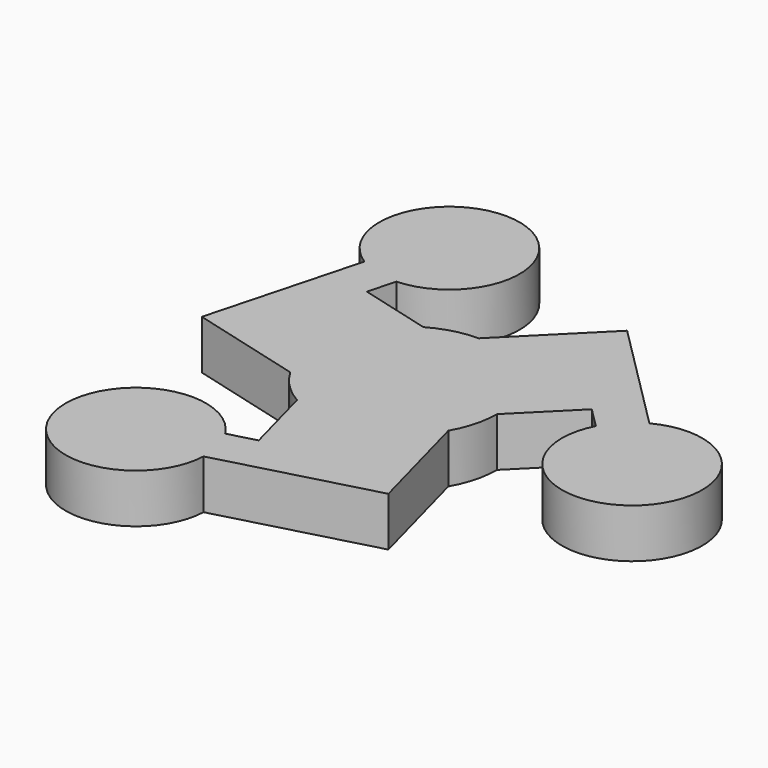
from build123d import *

# Parameters (mm, degrees)
F1_DEPTH = 7


with BuildPart() as f1:
    # F0 (on Top) → F1 (new body)
    with BuildSketch(Plane.XY):
        with BuildLine():
            Line((11.748737, 24.748737), (0, 13))
            ThreePointArc((0, 13), (-3.364648, 12.557036), (-6.5, 11.25833))
            Line((-6.5, 11.25833), (-16.753519, 14.005752))
            Line((-16.753519, 14.005752), (-15.698616, 17.942703))
            ThreePointArc((-15.698616, 17.942703), (-13.539227, 37.592764), (-21.494171, 19.495618))
            Line((-21.494171, 19.495618), (-27.307404, -2.199664))
            Line((-27.307404, -2.199664), (-11.25833, -6.5))
            ThreePointArc((-11.25833, -6.5), (-9.192388, -9.192388), (-6.5, -11.25833))
            Line((-6.5, -11.25833), (-3.752578, -21.511849))
            Line((-3.752578, -21.511849), (-7.689529, -22.566752))
            ThreePointArc((-7.689529, -22.566752), (-25.786675, -30.521696), (-6.136615, -28.362307))
            Line((-6.136615, -28.362307), (15.558667, -22.549074))
            Line((15.558667, -22.549074), (11.25833, -6.5))
            ThreePointArc((11.25833, -6.5), (12.557036, -3.364648), (13, 0))
            Line((13, 0), (20.506097, 7.506097))
            Line((20.506097, 7.506097), (23.388145, 4.624048))
            ThreePointArc((23.388145, 4.624048), (39.325902, -7.071068), (27.630786, 8.866689))
            Line((27.630786, 8.866689), (11.748737, 24.748737))
        make_face()
    extrude(amount=F1_DEPTH)


solid = f1.part
